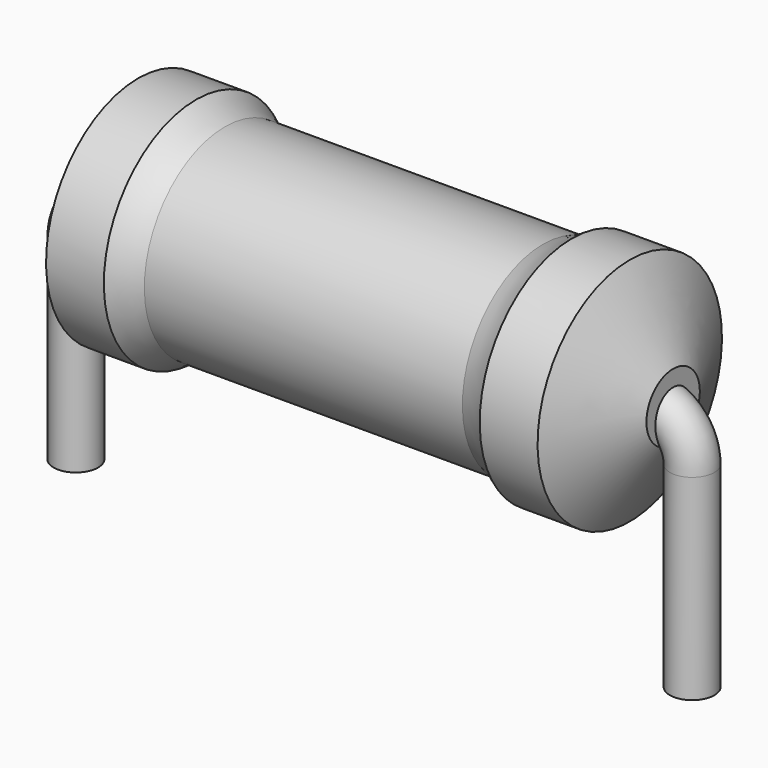
from build123d import *

# Parameters (mm, degrees)
SKETCH_R = 0.55


with BuildPart() as revolution:
    # Sketch002 → Revolution (revolve)
    with BuildSketch(Plane.XZ):
        with BuildLine():
            Line((1.5425, 5.8), (2.9725, 5.8))
            ThreePointArc((2.9725, 5.8), (3.315206, 5.591662), (3.6875, 5.4425))
            Line((3.6875, 5.4425), (11.5525, 5.4425))
            ThreePointArc((11.5525, 5.4425), (11.924794, 5.591662), (12.2675, 5.8))
            Line((12.2675, 5.8), (13.6975, 5.8))
            ThreePointArc((14.77, 3.775), (14.236788, 4.789109), (13.6975, 5.8))
            Line((14.77, 2.95), (14.77, 3.775))
            Line((0.47, 2.95), (14.77, 2.95))
            Line((0.47, 2.95), (0.47, 3.775))
            ThreePointArc((1.5425, 5.8), (1.003212, 4.789109), (0.47, 3.775))
        make_face()
    revolve(axis=Axis((0.47, 0, 2.95), (1, 0, 0)))


with BuildPart() as sweep_body:
    # Sweep: sweep along a path in Sketch001
    with BuildLine(Plane.XZ) as sweep_path:
        Line((0, -3), (0, 1.85))
        ThreePointArc((0, 1.85), (0.322183, 2.627817), (1.1, 2.95))
        Line((1.1, 2.95), (14.14, 2.95))
        ThreePointArc((14.14, 2.95), (14.917817, 2.627817), (15.24, 1.85))
        Line((15.24, 1.85), (15.24, -3))
    # Sketch → Sweep (sweep)
    with BuildSketch(Plane.XY.offset(-2)):
        Circle(SKETCH_R)
    sweep(path=sweep_path.line)


solid = Compound([revolution.part, sweep_body.part])
